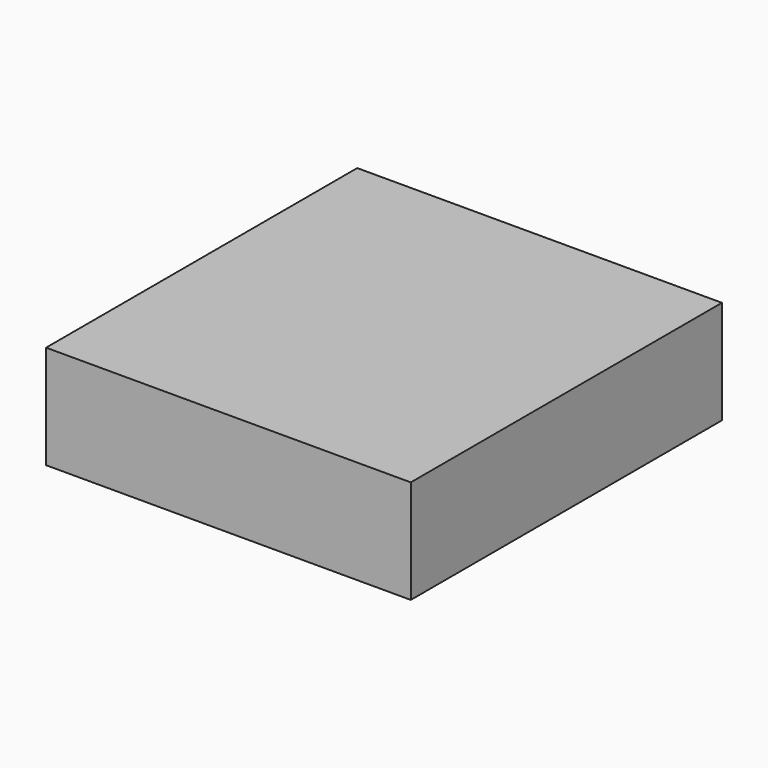
from build123d import *

# Parameters (mm, degrees)
F1_W     = 63.735023
F1_H     = 67.965232
F2_DEPTH = 18.088983


with BuildPart() as f2:
    # F1 (on face) → F2 (new body)
    with BuildSketch(Plane.XY):
        with Locations((-2.820142, 6.909322)):
            Rectangle(F1_W, F1_H)
    extrude(amount=F2_DEPTH)


solid = f2.part
